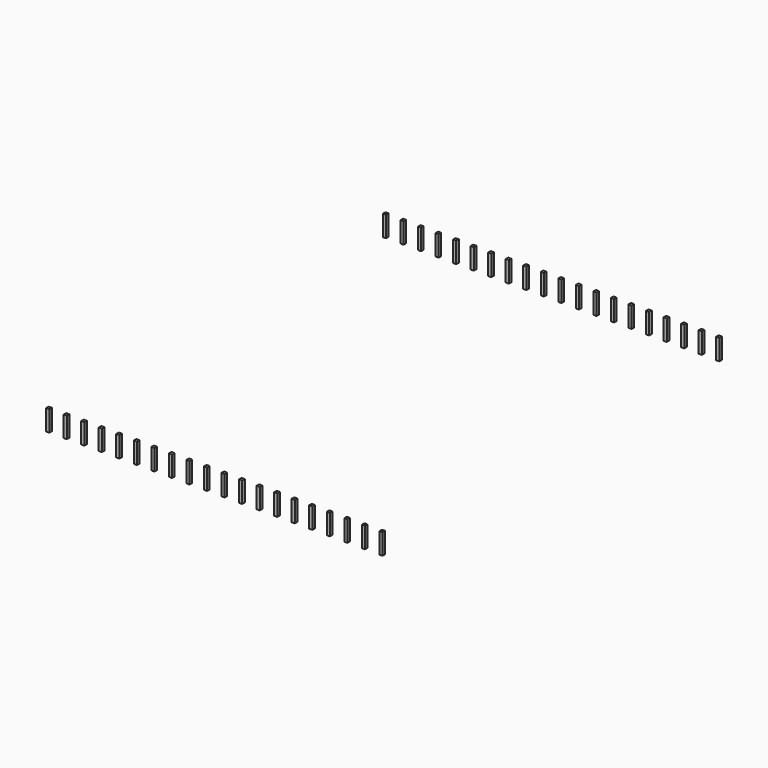
from build123d import *

# Parameters (mm, degrees)
BOX002_W      = 0.46
BOX002_H      = 0.46
BOX002_DEPTH  = 3
ARRAY_X_COUNT = 20
ARRAY_X_PITCH = 2.54
ARRAY_Y_COUNT = 2
ARRAY_Y_PITCH = 60.96


with BuildPart() as part:
    # Box002 → Box002 (new body)
    with BuildSketch(Plane(origin=(-0.23, -0.23, -5), x_dir=(1, 0, 0), z_dir=(0, 0, 1))):
        with Locations((0.23, 0.23)):
            Rectangle(BOX002_W, BOX002_H)
    extrude(amount=BOX002_DEPTH)

    # Array X: part ×20


with BuildPart() as part_1:
    add(part.part)
    with Locations(*[(i * ARRAY_X_PITCH, 0, 0) for i in range(1, ARRAY_X_COUNT)]):
        add(part.part)

    # Array Y: part ×2


with BuildPart() as part_2:
    add(part_1.part)
    with Locations(*[(0, -i * ARRAY_Y_PITCH, 0) for i in range(1, ARRAY_Y_COUNT)]):
        add(part_1.part)


with BuildPart() as part_3:
    # Array placement: moved
    add(part_2.part.moved(Location((0, 0, 2.1))))


solid = part_3.part
